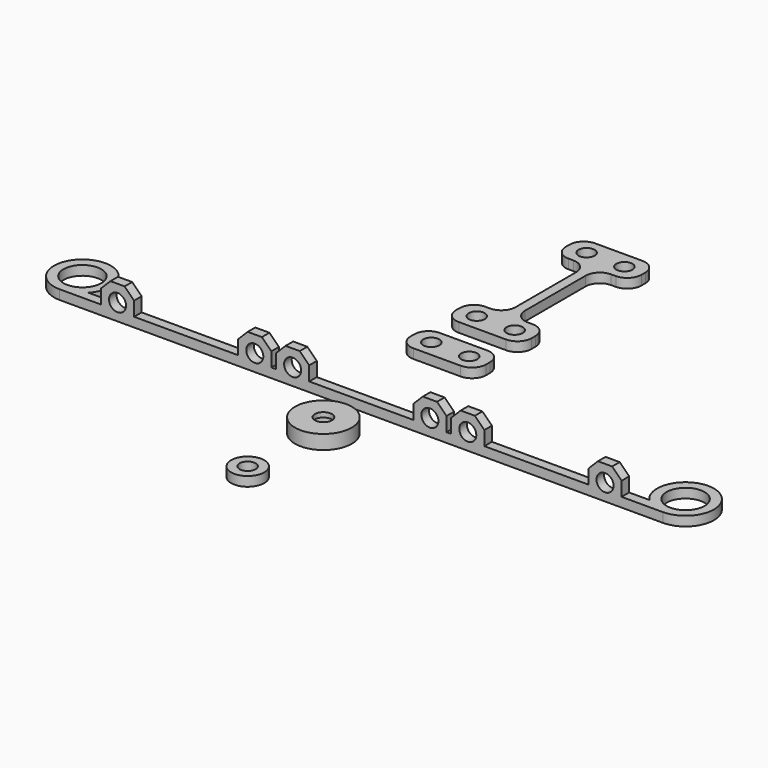
from build123d import *

# Parameters (mm, degrees)
SKETCH_R        = 1.7
PAD_DEPTH       = 2
SKETCH001_R     = 1.7
PAD001_DEPTH    = 2
SKETCH006_R     = 4
PAD002_DEPTH    = 2
SKETCH008_W     = 7
SKETCH008_H     = 2
PAD003_DEPTH    = 7
SKETCH009_R     = 1.8
POCKET_DEPTH    = 3.6
CHAMFER_SIZE    = 2
SKETCH010_R     = 6
SKETCH010_R_2   = 1.8
PAD004_DEPTH    = 3
SKETCH011_R     = 4
POCKET001_DEPTH = 2
SKETCH012_R     = 3.5
SKETCH012_R_2   = 1.7
PAD005_DEPTH    = 2


with BuildPart() as longbrace:
    # Sketch → Pad (new body)
    with BuildSketch(Plane.XY):
        with BuildLine():
            Line((0, 18), (-5, 18))
            ThreePointArc((-5, 18), (-7.12132, 17.12132), (-8, 15))
            Line((-8, 15), (-8, 14))
            ThreePointArc((-8, 14), (-7.12132, 11.87868), (-5, 11))
            Line((-5, 11), (-4, 11))
            ThreePointArc((-1, 8), (-1.87868, 10.12132), (-4, 11))
            Line((-1, 8), (-1, -8))
            ThreePointArc((-4, -11), (-1.87868, -10.12132), (-1, -8))
            Line((-5, -11), (-4, -11))
            ThreePointArc((-5, -11), (-7.12132, -11.87868), (-8, -14))
            Line((-8, -15), (-8, -14))
            ThreePointArc((-8, -15), (-7.12132, -17.12132), (-5, -18))
            Line((0, -18), (-5, -18))
            Line((0, -18), (5, -18))
            ThreePointArc((5, -18), (7.12132, -17.12132), (8, -15))
            Line((8, -15), (8, -14))
            ThreePointArc((8, -14), (7.12132, -11.87868), (5, -11))
            Line((5, -11), (4, -11))
            ThreePointArc((1, -8), (1.87868, -10.12132), (4, -11))
            Line((1, 8), (1, -8))
            ThreePointArc((4, 11), (1.87868, 10.12132), (1, 8))
            Line((5, 11), (4, 11))
            ThreePointArc((5, 11), (7.12132, 11.87868), (8, 14))
            Line((8, 15), (8, 14))
            ThreePointArc((8, 15), (7.12132, 17.12132), (5, 18))
            Line((0, 18), (5, 18))
        make_face()
        with Locations((-4, 14.5)):
            Circle(SKETCH_R, mode=Mode.SUBTRACT)
        with Locations((4, 14.5)):
            Circle(SKETCH_R, mode=Mode.SUBTRACT)
        with Locations((4, -14.5)):
            Circle(SKETCH_R, mode=Mode.SUBTRACT)
        with Locations((-4, -14.5)):
            Circle(SKETCH_R, mode=Mode.SUBTRACT)
    extrude(amount=PAD_DEPTH)


with BuildPart() as longbrace_1:
    # Body placement: moved
    add(longbrace.part.moved(Location((0, 30, 0))))


with BuildPart() as shortbrace:
    # Sketch001 → Pad001 (new body)
    with BuildSketch(Plane.XY):
        with BuildLine():
            Line((-8, 4), (-8, 3))
            ThreePointArc((-8, 3), (-7.12132, 0.87868), (-5, 0))
            Line((-5, 0), (5, 0))
            ThreePointArc((5, 0), (7.12132, 0.87868), (8, 3))
            Line((8, 4), (8, 3))
            ThreePointArc((8, 4), (7.12132, 6.12132), (5, 7))
            Line((-5, 7), (5, 7))
            ThreePointArc((-5, 7), (-7.12132, 6.12132), (-8, 4))
        make_face()
        with Locations((-4, 3.5)):
            Circle(SKETCH001_R, mode=Mode.SUBTRACT)
        with Locations((4, 3.5)):
            Circle(SKETCH001_R, mode=Mode.SUBTRACT)
    extrude(amount=PAD001_DEPTH)


with BuildPart() as backbrace:
    # Sketch006 → Pad002 (new body)
    with BuildSketch(Plane.XY):
        with BuildLine():
            ThreePointArc((-59.243764, 2), (-66.16539, 11.477226), (-63.7159, 0))
            Line((-63.7159, 0), (63.7159, 0))
            ThreePointArc((63.7159, 0), (66.16539, 11.477226), (59.243764, 2))
            Line((59.243764, 2), (-59.243764, 2))
        make_face()
        with Locations((-63.7159, 6)):
            Circle(SKETCH006_R, mode=Mode.SUBTRACT)
        with Locations((63.7159, 6)):
            Circle(SKETCH006_R, mode=Mode.SUBTRACT)
    extrude(amount=PAD002_DEPTH)

    # Sketch008 → Pad003 (join)
    with BuildSketch(Plane.XY):
        with Locations((-14.5, 1)):
            Rectangle(SKETCH008_W, SKETCH008_H)
        with Locations((14.5, 1)):
            Rectangle(SKETCH008_W, SKETCH008_H)
        with Locations((22.5, 1)):
            Rectangle(SKETCH008_W, SKETCH008_H)
        with Locations((-22.5, 1)):
            Rectangle(SKETCH008_W, SKETCH008_H)
        with Locations((-51.5, 1)):
            Rectangle(SKETCH008_W, SKETCH008_H)
        with Locations((51.5, 1)):
            Rectangle(SKETCH008_W, SKETCH008_H)
    extrude(amount=PAD003_DEPTH)

    # Sketch009 → Pocket (cut)
    with BuildSketch(Plane.XZ):
        with Locations((51.5, 3.5)):
            Circle(SKETCH009_R)
        with Locations((22.5, 3.5)):
            Circle(SKETCH009_R)
        with Locations((14.5, 3.5)):
            Circle(SKETCH009_R)
        with Locations((-14.5, 3.5)):
            Circle(SKETCH009_R)
        with Locations((-22.5, 3.5)):
            Circle(SKETCH009_R)
        with Locations((-51.5, 3.5)):
            Circle(SKETCH009_R)
    extrude(amount=-POCKET_DEPTH, mode=Mode.SUBTRACT)

    # Chamfer
    chamfer_edges = [backbrace.edges().sort_by_distance(p)[0] for p in [
        (-55, 1, 7),
        (-48, 1, 7),
        (-26, 1, 7),
        (-19, 1, 7),
        (-18, 1, 7),
        (-11, 1, 7),
        (11, 1, 7),
        (18, 1, 7),
        (19, 1, 7),
        (26, 1, 7),
        (48, 1, 7),
        (55, 1, 7),
    ]]
    chamfer(chamfer_edges, length=CHAMFER_SIZE)


with BuildPart() as backbrace_1:
    # Body003 placement: moved
    add(backbrace.part.moved(Location((0, -20, 0))))


with BuildPart() as bracecap:
    # Sketch010 → Pad004 (new body)
    with BuildSketch(Plane.XY):
        Circle(SKETCH010_R)
        Circle(SKETCH010_R_2, mode=Mode.SUBTRACT)
    extrude(amount=PAD004_DEPTH)

    # Sketch011 → Pocket001 (cut)
    with BuildSketch(Plane.XY):
        Circle(SKETCH011_R)
    extrude(amount=POCKET001_DEPTH, mode=Mode.SUBTRACT)


with BuildPart() as bracecap_1:
    # Body004 placement: moved
    add(bracecap.part.moved(Location((0, -30, 0))))


with BuildPart() as singlebrace:
    # Sketch012 → Pad005 (new body)
    with BuildSketch(Plane.XY):
        Circle(SKETCH012_R)
        Circle(SKETCH012_R_2, mode=Mode.SUBTRACT)
    extrude(amount=PAD005_DEPTH)


with BuildPart() as singlebrace_1:
    # Body005 placement: moved
    add(singlebrace.part.moved(Location((0, -50, 0))))


solid = Compound([longbrace_1.part, shortbrace.part, backbrace_1.part, bracecap_1.part, singlebrace_1.part])
